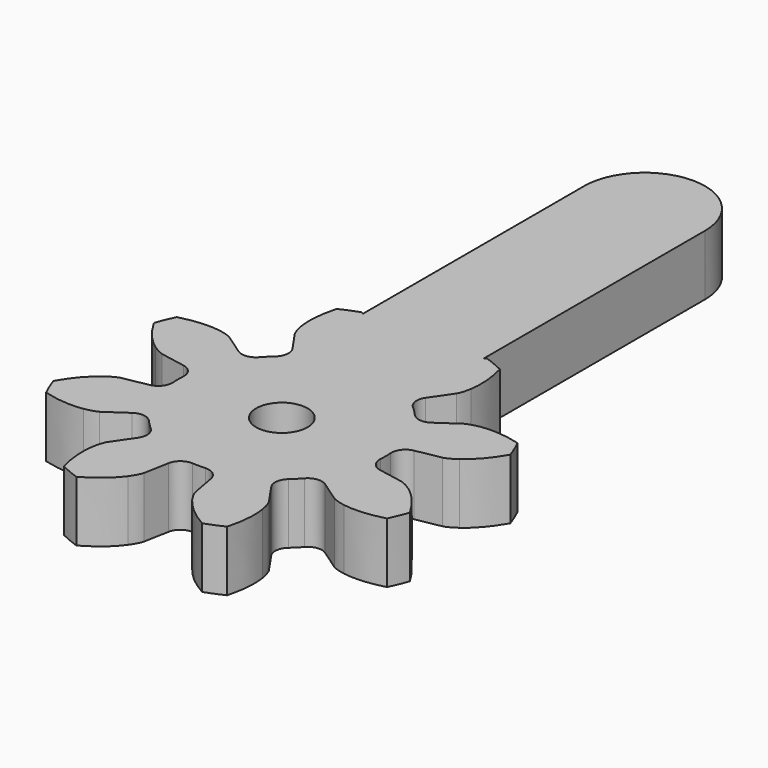
from build123d import *

# Parameters (mm, degrees)
CYLINDER007_R              = 1.7
CYLINDER007_DEPTH          = 10
EXTRUDE020_DEPTH           = 4
EXTRUDE018_DEPTH           = 4
EXTRUDE018_PLACEMENT_ANGLE = 22.5


with BuildPart() as cylinder007:
    # Cylinder007 → Cylinder007 (new body)
    with BuildSketch(Plane.XY.offset(-4)):
        Circle(CYLINDER007_R)
    extrude(amount=CYLINDER007_DEPTH)


with BuildPart() as link004:
    # Sketch011 → Extrude020 (new body)
    with BuildSketch(Plane.XY):
        with BuildLine():
            ThreePointArc((-4, 0), (0, -4), (4, 0))
            Line((4, 0), (4, 30))
            ThreePointArc((4, 30), (0, 34), (-4, 30))
            Line((-4, 0), (-4, 30))
        make_face()
    extrude(amount=EXTRUDE020_DEPTH)


with BuildPart() as cut008:
    # InvoluteGear007 → Extrude018 (new body)
    with BuildSketch(Plane.XY):
        with BuildLine():
            Line((7.583619, -1.626335), (9.226112, -1.976129))
            add(Edge.make_bspline(
                [(9.226112, -1.976129), (9.323588, -1.988042), (9.615448, -2.006593), (10.112858, -1.891348)],
                knots=[0, 0, 0, 0, 1, 1, 1, 1], degree=3))
            add(Edge.make_bspline(
                [(10.112858, -1.891348), (10.701098, -1.749257), (11.528547, -1.419904), (12.486309, -0.674071)],
                knots=[0, 0, 0, 0, 1, 1, 1, 1], degree=3))
            ThreePointArc((12.486309, -0.674071), (12.504498, 0), (12.486309, 0.674071))
            add(Edge.make_bspline(
                [(12.486309, 0.674071), (11.528547, 1.419904), (10.701098, 1.749257), (10.112858, 1.891348)],
                knots=[0, 0, 0, 0, 1, 1, 1, 1], degree=3))
            add(Edge.make_bspline(
                [(10.112858, 1.891348), (9.615448, 2.006593), (9.323588, 1.988042), (9.226112, 1.976129)],
                knots=[0, 0, 0, 0, 1, 1, 1, 1], degree=3))
            Line((9.226112, 1.976129), (7.583619, 1.626335))
            ThreePointArc((7.583619, 1.626335), (6.928673, 1.725171), (6.502518, 2.232237))
            ThreePointArc((6.502518, 2.232237), (6.351672, 2.630949), (6.176404, 3.019545))
            ThreePointArc((6.176404, 3.019545), (6.119192, 3.679432), (6.512421, 4.212436))
            Line((6.512421, 4.212436), (7.92118, 5.126512))
            add(Edge.make_bspline(
                [(7.92118, 5.126512), (7.99853, 5.187015), (8.218024, 5.380273), (8.488255, 5.813485)],
                knots=[0, 0, 0, 0, 1, 1, 1, 1], degree=3))
            add(Edge.make_bspline(
                [(8.488255, 5.813485), (8.803731, 6.329908), (9.155937, 7.14789), (9.305795, 8.352514)],
                knots=[0, 0, 0, 0, 1, 1, 1, 1], degree=3))
            ThreePointArc((9.305795, 8.352514), (8.842015, 8.842015), (8.352514, 9.305795))
            add(Edge.make_bspline(
                [(8.352514, 9.305795), (7.14789, 9.155937), (6.329908, 8.803731), (5.813485, 8.488255)],
                knots=[0, 0, 0, 0, 1, 1, 1, 1], degree=3))
            add(Edge.make_bspline(
                [(5.813485, 8.488255), (5.380273, 8.218024), (5.187015, 7.99853), (5.126512, 7.92118)],
                knots=[0, 0, 0, 0, 1, 1, 1, 1], degree=3))
            Line((5.126512, 7.92118), (4.212436, 6.512421))
            ThreePointArc((4.212436, 6.512421), (3.679432, 6.119192), (3.019545, 6.176404))
            ThreePointArc((3.019545, 6.176404), (2.630949, 6.351672), (2.232237, 6.502518))
            ThreePointArc((2.232237, 6.502518), (1.725171, 6.928673), (1.626335, 7.583619))
            Line((1.626335, 7.583619), (1.976129, 9.226112))
            add(Edge.make_bspline(
                [(1.976129, 9.226112), (1.988042, 9.323588), (2.006593, 9.615448), (1.891348, 10.112858)],
                knots=[0, 0, 0, 0, 1, 1, 1, 1], degree=3))
            add(Edge.make_bspline(
                [(1.891348, 10.112858), (1.749257, 10.701098), (1.419904, 11.528547), (0.674071, 12.486309)],
                knots=[0, 0, 0, 0, 1, 1, 1, 1], degree=3))
            ThreePointArc((0.674071, 12.486309), (0, 12.504498), (-0.674071, 12.486309))
            add(Edge.make_bspline(
                [(-0.674071, 12.486309), (-1.419904, 11.528547), (-1.749257, 10.701098), (-1.891348, 10.112858)],
                knots=[0, 0, 0, 0, 1, 1, 1, 1], degree=3))
            add(Edge.make_bspline(
                [(-1.891348, 10.112858), (-2.006593, 9.615448), (-1.988042, 9.323588), (-1.976129, 9.226112)],
                knots=[0, 0, 0, 0, 1, 1, 1, 1], degree=3))
            Line((-1.976129, 9.226112), (-1.626335, 7.583619))
            ThreePointArc((-1.626335, 7.583619), (-1.725171, 6.928673), (-2.232237, 6.502518))
            ThreePointArc((-2.232237, 6.502518), (-2.630949, 6.351672), (-3.019545, 6.176404))
            ThreePointArc((-3.019545, 6.176404), (-3.679432, 6.119192), (-4.212436, 6.512421))
            Line((-4.212436, 6.512421), (-5.126512, 7.92118))
            add(Edge.make_bspline(
                [(-5.126512, 7.92118), (-5.187015, 7.99853), (-5.380273, 8.218024), (-5.813485, 8.488255)],
                knots=[0, 0, 0, 0, 1, 1, 1, 1], degree=3))
            add(Edge.make_bspline(
                [(-5.813485, 8.488255), (-6.329908, 8.803731), (-7.14789, 9.155937), (-8.352514, 9.305795)],
                knots=[0, 0, 0, 0, 1, 1, 1, 1], degree=3))
            ThreePointArc((-8.352514, 9.305795), (-8.842015, 8.842015), (-9.305795, 8.352514))
            add(Edge.make_bspline(
                [(-9.305795, 8.352514), (-9.155937, 7.14789), (-8.803731, 6.329908), (-8.488255, 5.813485)],
                knots=[0, 0, 0, 0, 1, 1, 1, 1], degree=3))
            add(Edge.make_bspline(
                [(-8.488255, 5.813485), (-8.218024, 5.380273), (-7.99853, 5.187015), (-7.92118, 5.126512)],
                knots=[0, 0, 0, 0, 1, 1, 1, 1], degree=3))
            Line((-7.92118, 5.126512), (-6.512421, 4.212436))
            ThreePointArc((-6.512421, 4.212436), (-6.119192, 3.679432), (-6.176404, 3.019545))
            ThreePointArc((-6.176404, 3.019545), (-6.351672, 2.630949), (-6.502518, 2.232237))
            ThreePointArc((-6.502518, 2.232237), (-6.928673, 1.725171), (-7.583619, 1.626335))
            Line((-7.583619, 1.626335), (-9.226112, 1.976129))
            add(Edge.make_bspline(
                [(-9.226112, 1.976129), (-9.323588, 1.988042), (-9.615448, 2.006593), (-10.112858, 1.891348)],
                knots=[0, 0, 0, 0, 1, 1, 1, 1], degree=3))
            add(Edge.make_bspline(
                [(-10.112858, 1.891348), (-10.701098, 1.749257), (-11.528547, 1.419904), (-12.486309, 0.674071)],
                knots=[0, 0, 0, 0, 1, 1, 1, 1], degree=3))
            ThreePointArc((-12.486309, 0.674071), (-12.504498, 0), (-12.486309, -0.674071))
            add(Edge.make_bspline(
                [(-12.486309, -0.674071), (-11.528547, -1.419904), (-10.701098, -1.749257), (-10.112858, -1.891348)],
                knots=[0, 0, 0, 0, 1, 1, 1, 1], degree=3))
            add(Edge.make_bspline(
                [(-10.112858, -1.891348), (-9.615448, -2.006593), (-9.323588, -1.988042), (-9.226112, -1.976129)],
                knots=[0, 0, 0, 0, 1, 1, 1, 1], degree=3))
            Line((-9.226112, -1.976129), (-7.583619, -1.626335))
            ThreePointArc((-7.583619, -1.626335), (-6.928673, -1.725171), (-6.502518, -2.232237))
            ThreePointArc((-6.502518, -2.232237), (-6.351672, -2.630949), (-6.176404, -3.019545))
            ThreePointArc((-6.176404, -3.019545), (-6.119192, -3.679432), (-6.512421, -4.212436))
            Line((-6.512421, -4.212436), (-7.92118, -5.126512))
            add(Edge.make_bspline(
                [(-7.92118, -5.126512), (-7.99853, -5.187015), (-8.218024, -5.380273), (-8.488255, -5.813485)],
                knots=[0, 0, 0, 0, 1, 1, 1, 1], degree=3))
            add(Edge.make_bspline(
                [(-8.488255, -5.813485), (-8.803731, -6.329908), (-9.155937, -7.14789), (-9.305795, -8.352514)],
                knots=[0, 0, 0, 0, 1, 1, 1, 1], degree=3))
            ThreePointArc((-9.305795, -8.352514), (-8.842015, -8.842015), (-8.352514, -9.305795))
            add(Edge.make_bspline(
                [(-8.352514, -9.305795), (-7.14789, -9.155937), (-6.329908, -8.803731), (-5.813485, -8.488255)],
                knots=[0, 0, 0, 0, 1, 1, 1, 1], degree=3))
            add(Edge.make_bspline(
                [(-5.813485, -8.488255), (-5.380273, -8.218024), (-5.187015, -7.99853), (-5.126512, -7.92118)],
                knots=[0, 0, 0, 0, 1, 1, 1, 1], degree=3))
            Line((-5.126512, -7.92118), (-4.212436, -6.512421))
            ThreePointArc((-4.212436, -6.512421), (-3.679432, -6.119192), (-3.019545, -6.176404))
            ThreePointArc((-3.019545, -6.176404), (-2.630949, -6.351672), (-2.232237, -6.502518))
            ThreePointArc((-2.232237, -6.502518), (-1.725171, -6.928673), (-1.626335, -7.583619))
            Line((-1.626335, -7.583619), (-1.976129, -9.226112))
            add(Edge.make_bspline(
                [(-1.976129, -9.226112), (-1.988042, -9.323588), (-2.006593, -9.615448), (-1.891348, -10.112858)],
                knots=[0, 0, 0, 0, 1, 1, 1, 1], degree=3))
            add(Edge.make_bspline(
                [(-1.891348, -10.112858), (-1.749257, -10.701098), (-1.419904, -11.528547), (-0.674071, -12.486309)],
                knots=[0, 0, 0, 0, 1, 1, 1, 1], degree=3))
            ThreePointArc((-0.674071, -12.486309), (0, -12.504498), (0.674071, -12.486309))
            add(Edge.make_bspline(
                [(0.674071, -12.486309), (1.419904, -11.528547), (1.749257, -10.701098), (1.891348, -10.112858)],
                knots=[0, 0, 0, 0, 1, 1, 1, 1], degree=3))
            add(Edge.make_bspline(
                [(1.891348, -10.112858), (2.006593, -9.615448), (1.988042, -9.323588), (1.976129, -9.226112)],
                knots=[0, 0, 0, 0, 1, 1, 1, 1], degree=3))
            Line((1.976129, -9.226112), (1.626335, -7.583619))
            ThreePointArc((1.626335, -7.583619), (1.725171, -6.928673), (2.232237, -6.502518))
            ThreePointArc((2.232237, -6.502518), (2.630949, -6.351672), (3.019545, -6.176404))
            ThreePointArc((3.019545, -6.176404), (3.679432, -6.119192), (4.212436, -6.512421))
            Line((4.212436, -6.512421), (5.126512, -7.92118))
            add(Edge.make_bspline(
                [(5.126512, -7.92118), (5.187015, -7.99853), (5.380273, -8.218024), (5.813485, -8.488255)],
                knots=[0, 0, 0, 0, 1, 1, 1, 1], degree=3))
            add(Edge.make_bspline(
                [(5.813485, -8.488255), (6.329908, -8.803731), (7.14789, -9.155937), (8.352514, -9.305795)],
                knots=[0, 0, 0, 0, 1, 1, 1, 1], degree=3))
            ThreePointArc((8.352514, -9.305795), (8.842015, -8.842015), (9.305795, -8.352514))
            add(Edge.make_bspline(
                [(9.305795, -8.352514), (9.155937, -7.14789), (8.803731, -6.329908), (8.488255, -5.813485)],
                knots=[0, 0, 0, 0, 1, 1, 1, 1], degree=3))
            add(Edge.make_bspline(
                [(8.488255, -5.813485), (8.218024, -5.380273), (7.99853, -5.187015), (7.92118, -5.126512)],
                knots=[0, 0, 0, 0, 1, 1, 1, 1], degree=3))
            Line((7.92118, -5.126512), (6.512421, -4.212436))
            ThreePointArc((6.512421, -4.212436), (6.119192, -3.679432), (6.176404, -3.019545))
            ThreePointArc((6.176404, -3.019545), (6.351672, -2.630949), (6.502518, -2.232237))
            ThreePointArc((6.502518, -2.232237), (6.928673, -1.725171), (7.583619, -1.626335))
        make_face()
    extrude(amount=EXTRUDE018_DEPTH)


with BuildPart() as cut008_1:
    # Extrude018 placement: moved
    add(cut008.part.rotate(Axis((0, 0, 0), (0, 0, 1)), EXTRUDE018_PLACEMENT_ANGLE))

    # Fusion004: union link004
    add(link004.part)

    # Cut008: cut Cylinder007
    add(cylinder007.part, mode=Mode.SUBTRACT)


with BuildPart() as cut008_2:
    # Cut008 placement: moved
    add(cut008_1.part.moved(Location((0, 0, 43))))


solid = cut008_2.part
